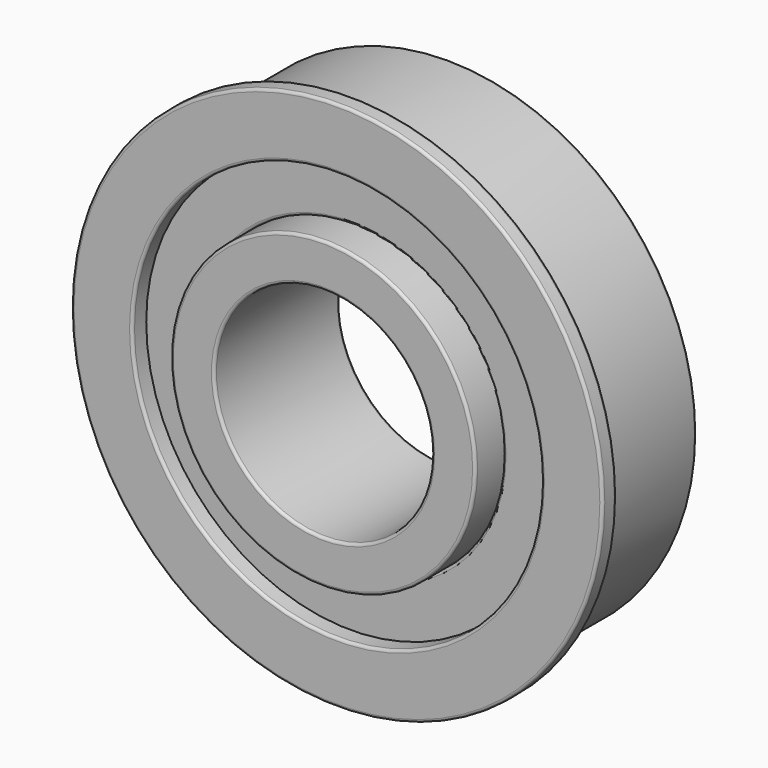
from build123d import *

# Parameters (mm, degrees)
F0_R     = 13.890625
F0_R_2   = 9.921875
F1_DEPTH = 14.2875
F0_R_3   = 18.653125
F2_DEPTH = 11.1125
F0_R_4   = 22.621875
F3_DEPTH = 12.7
F4_R     = 24.209375
F4_R_2   = 22.621875
F5_DEPTH = 1.5875
F6_R     = 0.254
F6_2_R   = 0.254
F6_3_R   = 0.254


with BuildPart() as f1:
    # F0 (on Front) → F1 (new body)
    with BuildSketch(Plane.XZ):
        Circle(F0_R)
        Circle(F0_R_2, mode=Mode.SUBTRACT)
    extrude(amount=F1_DEPTH)

    # F6#3
    f6_3_edges = [f1.edges().sort_by_distance(p)[0] for p in [
        (-13.890625, -14.2875, 0),
        (-9.921875, -14.2875, 0),
        (-13.890625, 0, 0),
        (-9.921875, 0, 0),
    ]]
    fillet(f6_3_edges, radius=F6_3_R)


with BuildPart() as f2:
    # F0 (on Front) → F2 (new body)
    with BuildSketch(Plane.XZ):
        Circle(F0_R_3)
        Circle(F0_R, mode=Mode.SUBTRACT)
    extrude(amount=F2_DEPTH)

    # F6#2
    f6_2_edges = [f2.edges().sort_by_distance(p)[0] for p in [
        (-13.890625, -11.1125, 0),
        (-18.653125, 0, 0),
    ]]
    fillet(f6_2_edges, radius=F6_2_R)


with BuildPart() as f3:
    # F0 (on Front) → F3 (new body)
    with BuildSketch(Plane.XZ):
        Circle(F0_R_4)
        Circle(F0_R_3, mode=Mode.SUBTRACT)
    extrude(amount=F3_DEPTH)

    # F4 (on face) → F5 (join)
    with BuildSketch(Plane.XZ.offset(12.7)):
        Circle(F4_R)
        Circle(F4_R_2, mode=Mode.SUBTRACT)
    extrude(amount=-F5_DEPTH)

    # F6
    f6_edges = [f3.edges().sort_by_distance(p)[0] for p in [
        (-24.209375, -11.1125, 0),
        (-24.209375, -12.7, 0),
        (-18.653125, -12.7, 0),
        (-22.621875, 0, 0),
    ]]
    fillet(f6_edges, radius=F6_R)


solid = Compound([f1.part, f2.part, f3.part])
